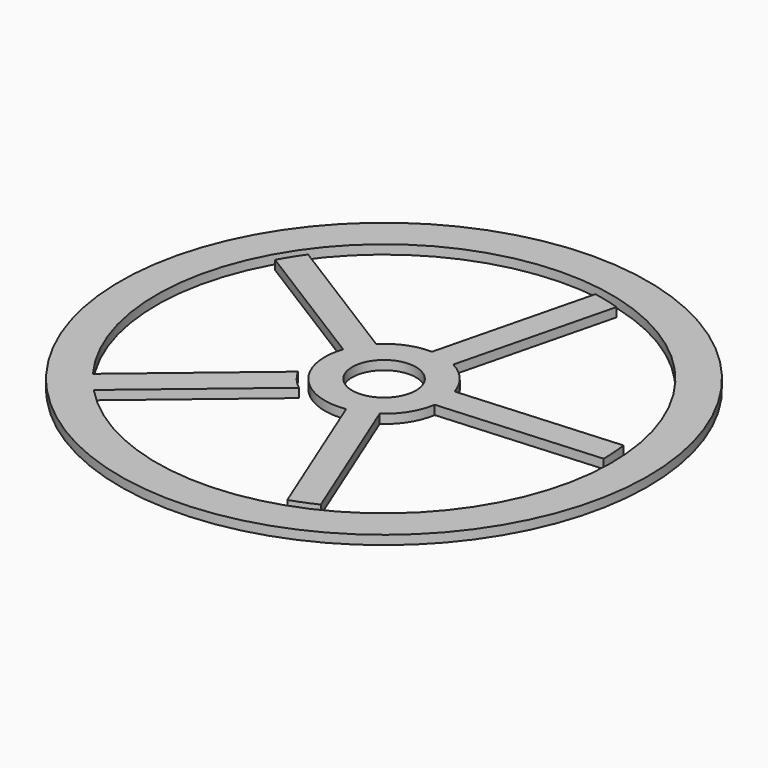
from build123d import *

# Parameters (mm, degrees)
F3_DEPTH  = 1
F5_COUNT  = 5
F6_R      = 6.5
F8_DEPTH  = 1
F7_R      = 3.5
F9_DEPTH  = 1.001
F10_R     = 29
F10_R_2   = 25
F11_DEPTH = 1
F12_R     = 25
F12_R_2   = 24
F13_DEPTH = 1.001
F15_DEPTH = 1.001
F17_DEPTH = 1


with BuildPart() as f3:
    # F1 (on Top) → F3 (new body)
    with BuildSketch(Plane.XY):
        Polygon((-20.1152924925, -14.9206235775), (-18.1869296634, -17.2187569068), (-3.8807090438, -5.2144124614), (-3.1088401015, -2.6086265826), (-5.8090718729, -2.916279132), align=None)
    extrude(amount=F3_DEPTH)


with BuildPart() as f5_1:
    # F5: instance of F3
    add(f3.part.rotate(Axis((0, 0, 17.3033885658), (0, 0, 1)), 1 * 360 / F5_COUNT))


with BuildPart() as f5_2:
    # F5: instance of F3
    add(f3.part.rotate(Axis((0, 0, 17.3033885658), (0, 0, 1)), 2 * 360 / F5_COUNT))


with BuildPart() as f5_3:
    # F5: instance of F3
    add(f3.part.rotate(Axis((0, 0, 17.3033885658), (0, 0, 1)), 3 * 360 / F5_COUNT))


with BuildPart() as f5_4:
    # F5: instance of F3
    add(f3.part.rotate(Axis((0, 0, 17.3033885658), (0, 0, 1)), 4 * 360 / F5_COUNT))


with BuildPart() as f3_1:
    add(f3.part)

    add(f5_1.part)  # F8 merges F5_1

    add(f5_2.part)  # F8 merges F5_2

    add(f5_3.part)  # F8 merges F5_3

    add(f5_4.part)  # F8 merges F5_4
    # F6 (on Top) → F8 (join)
    with BuildSketch(Plane.XY):
        Circle(F6_R)
        Circle(F6_R)
    extrude(amount=F8_DEPTH)

    # F7 (on Top) → F9 (cut, through all)
    with BuildSketch(Plane.XY):
        Circle(F7_R)
    extrude(amount=F9_DEPTH, mode=Mode.SUBTRACT)

    # F10 (on Top) → F11 (join, through all)
    with BuildSketch(Plane.XY):
        Circle(F10_R)
        Circle(F10_R_2, mode=Mode.SUBTRACT)
    extrude(amount=F11_DEPTH)

    # F12 (on Top) → F13 (cut, through all)
    with BuildSketch(Plane.XY):
        Circle(F12_R)
        Circle(F12_R_2, mode=Mode.SUBTRACT)
    extrude(amount=F13_DEPTH, mode=Mode.SUBTRACT)

    # F14 (on Top) → F15 (cut, through all)
    with BuildSketch(Plane.XY):
        with BuildLine():
            ThreePointArc((-2.2854405272, -6.0849619224), (-4.7407313578, -4.4469614562), (-6.2185340336, -1.8920450503))
            Line((-6.2185340336, -1.8920450503), (-18.8992489129, -15.5668277293))
            Line((-18.8992489129, -15.5668277293), (-15.3703698888, -18.8940558583))
            Line((-15.3703698888, -18.8940558583), (-2.2854405272, -6.0849619224))
        make_face()
    extrude(amount=F15_DEPTH, mode=Mode.SUBTRACT)

    # F16 (on Top) → F17 (join, through all)
    with BuildSketch(Plane.XY):
        with BuildLine():
            ThreePointArc((-4.6650726033, -5.8725716348), (-5.7453333234, -4.8209070726), (-6.5934354323, -3.5744383055))
            Line((-6.5934354323, -3.5744383055), (-23.1497331207, -17.4668215895))
            ThreePointArc((-23.1497331207, -17.4668215895), (-22.2152888505, -18.6408406809), (-21.2213702917, -19.7649549188))
            Line((-21.2213702917, -19.7649549188), (-4.6650726033, -5.8725716348))
        make_face()
    extrude(amount=F17_DEPTH)


solid = f3_1.part
